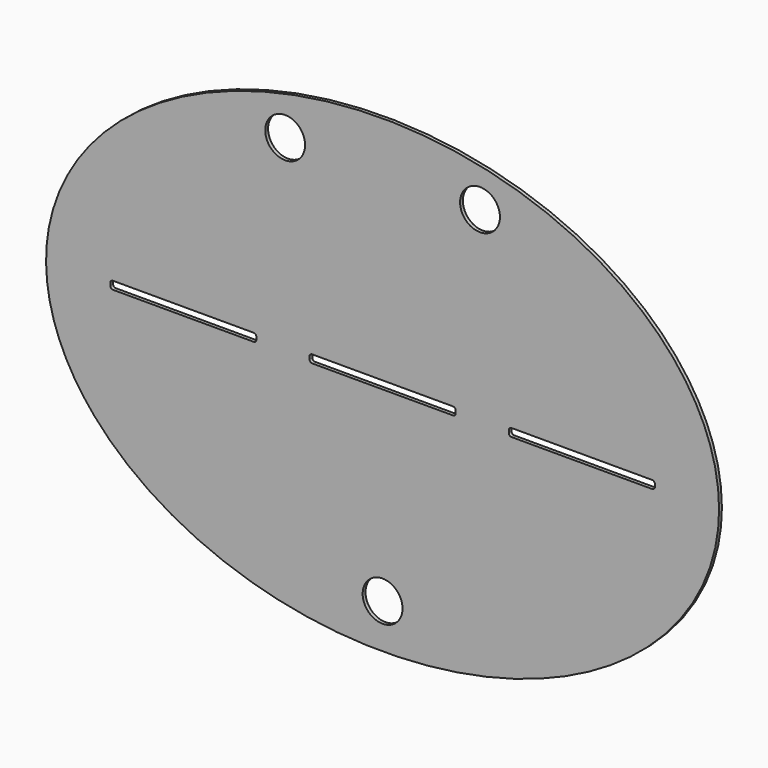
from build123d import *

# Parameters (mm, degrees)
F0_R     = 2.25
F1_DEPTH = 0.4


with BuildPart() as f1:
    # F0 (on Front) → F1 (new body)
    with BuildSketch(Plane.XZ):
        with BuildLine():
            add(Edge.make_bspline(
                [(38, 0), (38, 45.899346), (-19, 22.949673), (-76, 0), (-19, -22.949673), (38, -45.899346), (38, 0)],
                knots=[0, 0, 0, 2.094395, 2.094395, 4.18879, 4.18879, 6.283185, 6.283185, 6.283185], degree=2, weights=[1, 0.5, 1, 0.5, 1, 0.5, 1]))
        make_face()
        with Locations((0, -21.5)):
            Circle(F0_R, mode=Mode.SUBTRACT)
        with BuildLine():
            ThreePointArc((-30.75, 0.15), (-30.662132, 0.362132), (-30.45, 0.45))
            Line((-30.45, 0.45), (-14.55, 0.45))
            ThreePointArc((-14.55, 0.45), (-14.337868, 0.362132), (-14.25, 0.15))
            Line((-14.25, 0.15), (-14.25, -0.15))
            ThreePointArc((-14.25, -0.15), (-14.337868, -0.362132), (-14.55, -0.45))
            Line((-14.55, -0.45), (-30.45, -0.45))
            ThreePointArc((-30.45, -0.45), (-30.662132, -0.362132), (-30.75, -0.15))
            Line((-30.75, -0.15), (-30.75, 0.15))
        make_face(mode=Mode.SUBTRACT)
        with Locations((-11, 21)):
            Circle(F0_R, mode=Mode.SUBTRACT)
        with BuildLine():
            ThreePointArc((8.25, -0.15), (8.162132, -0.362132), (7.95, -0.45))
            Line((7.95, -0.45), (-7.95, -0.45))
            ThreePointArc((-7.95, -0.45), (-8.162132, -0.362132), (-8.25, -0.15))
            Line((-8.25, -0.15), (-8.25, 0.15))
            ThreePointArc((-8.25, 0.15), (-8.162132, 0.362132), (-7.95, 0.45))
            Line((-7.95, 0.45), (7.95, 0.45))
            ThreePointArc((7.95, 0.45), (8.162132, 0.362132), (8.25, 0.15))
            Line((8.25, 0.15), (8.25, -0.15))
        make_face(mode=Mode.SUBTRACT)
        with BuildLine():
            ThreePointArc((30.75, -0.15), (30.662132, -0.362132), (30.45, -0.45))
            Line((30.45, -0.45), (14.55, -0.45))
            ThreePointArc((14.55, -0.45), (14.337868, -0.362132), (14.25, -0.15))
            Line((14.25, -0.15), (14.25, 0.15))
            ThreePointArc((14.25, 0.15), (14.337868, 0.362132), (14.55, 0.45))
            Line((14.55, 0.45), (30.45, 0.45))
            ThreePointArc((30.45, 0.45), (30.662132, 0.362132), (30.75, 0.15))
            Line((30.75, 0.15), (30.75, -0.15))
        make_face(mode=Mode.SUBTRACT)
        with Locations((11, 21)):
            Circle(F0_R, mode=Mode.SUBTRACT)
    extrude(amount=F1_DEPTH)


solid = f1.part
